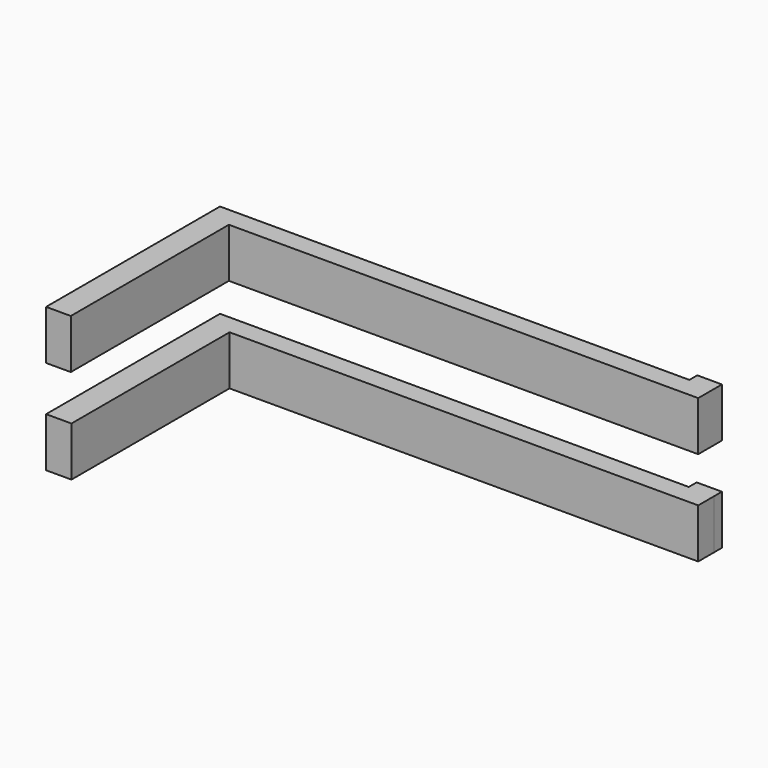
from build123d import *

# Parameters (mm, degrees)
F0_W     = 50
F0_H     = 5
F1_DEPTH = 2
F2_W     = 2.5
F2_H     = 5
F3_DEPTH = 20
F4_W     = 2.566858
F4_H     = 5
F5_DEPTH = 20
F6_W     = 2.49176
F6_H     = 5
F7_DEPTH = 3
F8_W     = 2.553163
F8_H     = 5
F9_DEPTH = 3


with BuildPart() as f1:
    # F0 (on Front) → F1 (new body)
    with BuildSketch(Plane.XZ):
        with Locations((-25, 5.07353)):
            Rectangle(F0_W, F0_H)
        with Locations((-25, -4.485294)):
            Rectangle(F0_W, F0_H)
    extrude(amount=F1_DEPTH)

    # F2 (on face) → F3 (join)
    with BuildSketch(Plane.XZ.offset(2)):
        with Locations((-48.75, 5.07353)):
            Rectangle(F2_W, F2_H)
    extrude(amount=F3_DEPTH)

    # F4 (on face) → F5 (join)
    with BuildSketch(Plane.XZ.offset(2)):
        with Locations((-48.716571, -4.485294)):
            Rectangle(F4_W, F4_H)
    extrude(amount=F5_DEPTH)

    # F6 (on face) → F7 (join)
    with BuildSketch(Plane.XZ.offset(2)):
        with Locations((-1.24588, 5.07353)):
            Rectangle(F6_W, F6_H)
    extrude(amount=-F7_DEPTH)

    # F8 (on face) → F9 (join)
    with BuildSketch(Plane.XZ.offset(2)):
        with Locations((-1.276582, -4.485294)):
            Rectangle(F8_W, F8_H)
    extrude(amount=-F9_DEPTH)


solid = f1.part
